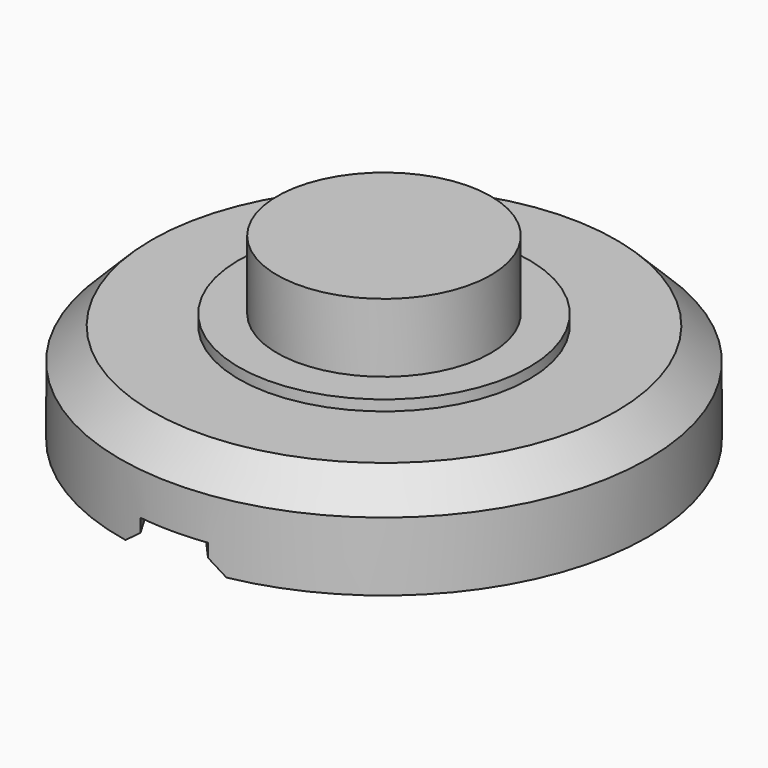
from build123d import *

# Parameters (mm, degrees)
F0_R     = 10
F0_R_2   = 5.5
F0_R_3   = 4.05
F1_DEPTH = 3.8
F2_DEPTH = 6.8
F3_SIZE  = 1.2
F4_DEPTH = 4.2
F6_DEPTH = 1
F7_SIZE2 = 0.5
F7_SIZE  = 0.5


with BuildPart() as f1:
    # F0 (on Top) → F1 (new body)
    with BuildSketch(Plane.XY):
        Circle(F0_R)
        Circle(F0_R_2, mode=Mode.SUBTRACT)
        Circle(F0_R_3)
        Circle(F0_R_2)
        Circle(F0_R_3, mode=Mode.SUBTRACT)
    extrude(amount=F1_DEPTH)

    # F0 (on Top) → F2 (join)
    with BuildSketch(Plane.XY):
        Circle(F0_R_3)
    extrude(amount=F2_DEPTH)

    # F3
    f3_edges = [f1.edges().sort_by_distance(p)[0] for p in [
        (-10, 0, 3.8),
    ]]
    chamfer(f3_edges, length=F3_SIZE)

    # F0 (on Top) → F4 (join)
    with BuildSketch(Plane.XY):
        Circle(F0_R_2)
        Circle(F0_R_3, mode=Mode.SUBTRACT)
    extrude(amount=F4_DEPTH)

    # F5 (on face) → F6 (cut)
    with BuildSketch(Plane(origin=(0, 0, 0), x_dir=(1, 0, 0), z_dir=(0, 0, -1))):
        with BuildLine():
            ThreePointArc((0, 0), (-1.755002, 5), (0, 10))
            ThreePointArc((0, 10), (-0.648262, 9.978966), (-1.293797, 9.915951))
            ThreePointArc((-1.293797, 9.915951), (-2.744355, 4.562366), (-0.780625, -0.625))
            ThreePointArc((-0.780625, -0.625), (0.745504, -5.364534), (-1.265312, -9.919626))
            ThreePointArc((-1.265312, -9.919626), (-0.633931, -9.979886), (0, -10))
            ThreePointArc((0, -10), (1.755002, -5), (0, 0))
        make_face()
        with BuildLine():
            ThreePointArc((1.265312, 9.919626), (0.633931, 9.979886), (0, 10))
            ThreePointArc((0, 10), (-1.755002, 5), (0, 0))
            Line((0, 0), (1.238317, 0))
            ThreePointArc((1.238317, 0), (1.016198, 0.317427), (0.780625, 0.625))
            ThreePointArc((0.780625, 0.625), (-0.745504, 5.364534), (1.265312, 9.919626))
        make_face()
        with BuildLine():
            Line((1.238317, 0), (0, 0))
            ThreePointArc((0, 0), (1.755002, -5), (0, -10))
            ThreePointArc((0, -10), (0.648262, -9.978966), (1.293797, -9.915951))
            ThreePointArc((1.293797, -9.915951), (2.754861, -4.949646), (1.238317, 0))
        make_face()
    extrude(amount=-F6_DEPTH, mode=Mode.SUBTRACT)

    # F7
    f7_edges = [f1.edges().sort_by_distance(p)[0] for p in [
        (-2.744355, -4.562366, 0),
        (0.745504, 5.364534, 0),
        (2.744355, 4.562366, 0),
        (-0.745504, -5.364534, 0),
    ]]
    chamfer(f7_edges, length=F7_SIZE, length2=F7_SIZE2)


solid = f1.part
